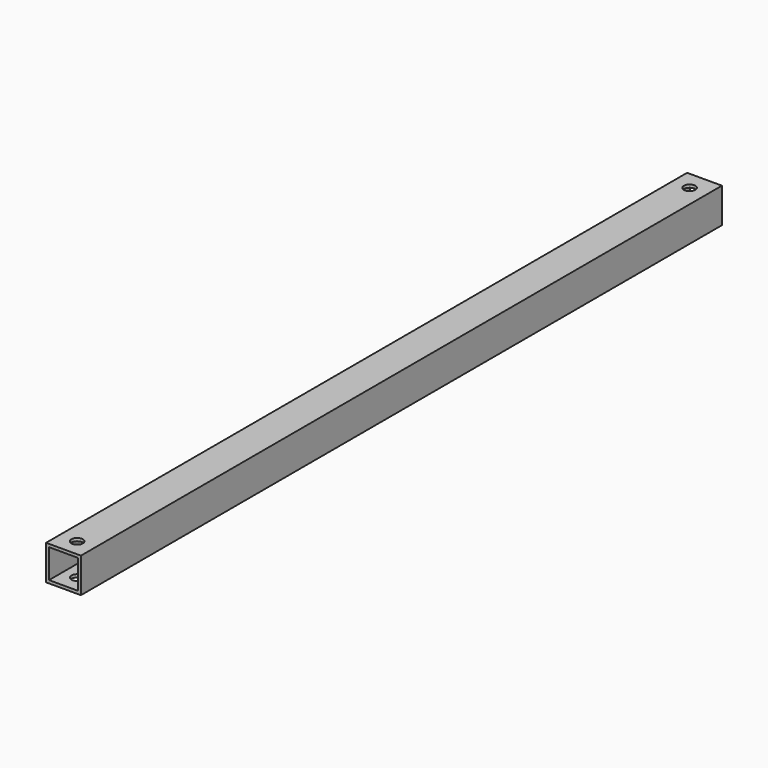
from build123d import *

# Parameters (mm, degrees)
F0_W     = 19.05
F0_H     = 19.05
F0_W_2   = 15.8623
F0_H_2   = 15.8623
F1_DEPTH = 438.15
F2_R     = 3.1242
F3_DEPTH = 19.051


with BuildPart() as f1:
    # F0 (on Front) → F1 (new body)
    with BuildSketch(Plane.XZ):
        with Locations((-0.55224, -2.118741)):
            Rectangle(F0_W, F0_H)
        with Locations((-0.54589, -2.112391)):
            Rectangle(F0_W_2, F0_H_2, mode=Mode.SUBTRACT)
    extrude(amount=F1_DEPTH)

    # F2 (on face) → F3 (cut, through all)
    with BuildSketch(Plane.XY.offset(7.406259)):
        with Locations((-0.55224, -10.16508)):
            Circle(F2_R)
        with Locations((-0.55224, -428.80788)):
            Circle(F2_R)
    extrude(amount=-F3_DEPTH, mode=Mode.SUBTRACT)


solid = f1.part
